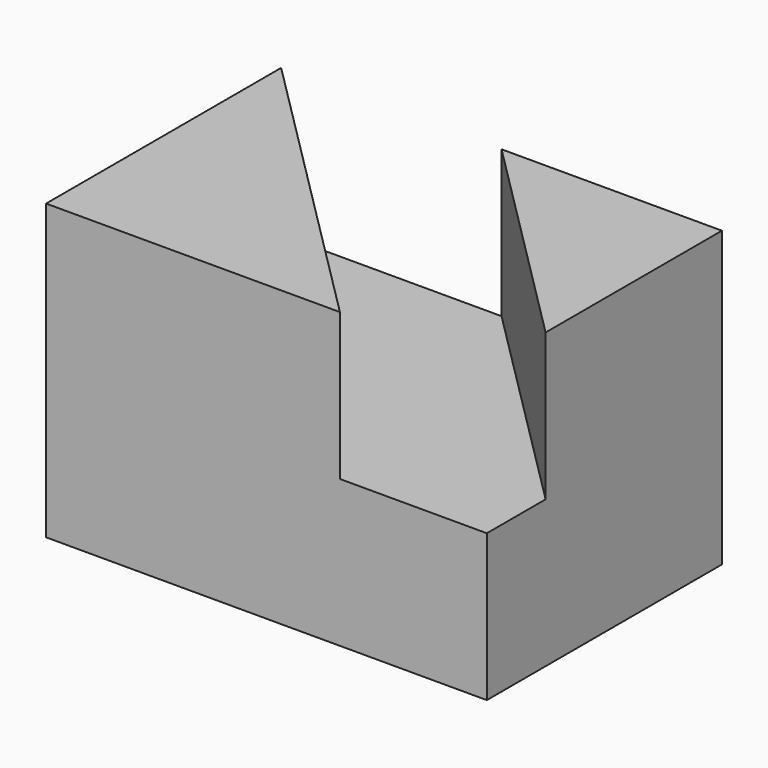
from build123d import *

# Parameters (mm, degrees)
F0_W     = 25.4
F0_H     = 25.4
F1_DEPTH = 38.1
F3_DEPTH = 12.7


with BuildPart() as f1:
    # F0 (on Right) → F1 (new body)
    with BuildSketch(Plane.YZ):
        with Locations((-12.7, 12.7)):
            Rectangle(F0_W, F0_H)
    extrude(amount=F1_DEPTH)

    # F2 (on face) → F3 (cut)
    with BuildSketch(Plane.XY.offset(25.4)):
        Polygon((25.4, -25.4), (38.1, -25.4), (38.1, -19.05), (19.05, 0), (0, 0), align=None)
    extrude(amount=-F3_DEPTH, mode=Mode.SUBTRACT)


solid = f1.part
